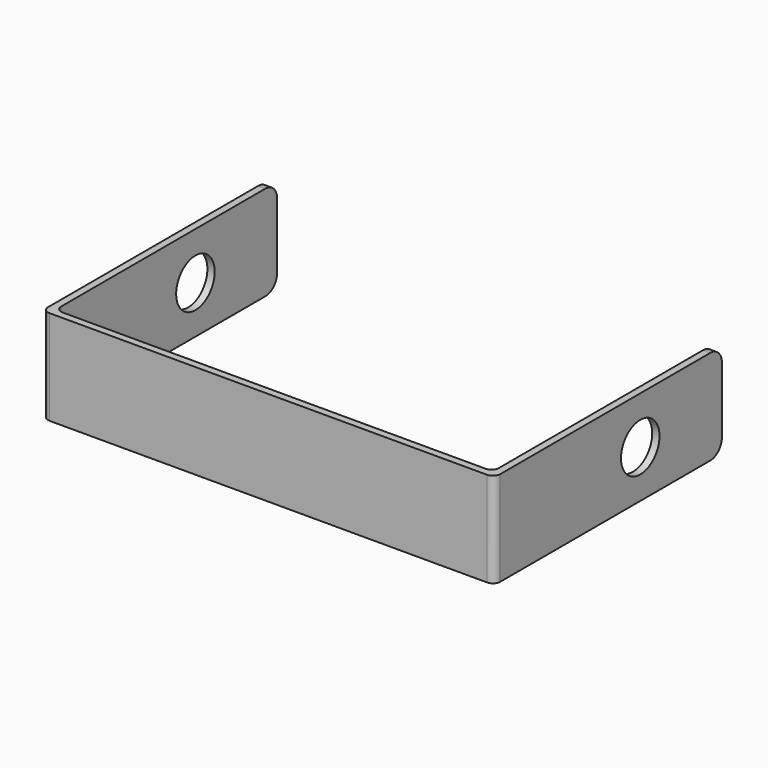
from build123d import *

# Parameters (mm, degrees)
F1_DEPTH = 6.5
F2_R     = 1.65
F3_DEPTH = 31.001
F4_R     = 0.5
F5_R     = 1


with BuildPart() as f1:
    # F0 (on Top) → F1 (new body)
    with BuildSketch(Plane.XY):
        Polygon((15, 0), (-15, 0), (-15, 19), (-15.5, 19), (-15.5, -0.5), (15.5, -0.5), (15.5, 19), (15, 19), align=None)
    extrude(amount=F1_DEPTH)

    # F2 (on face) → F3 (cut, through all)
    with BuildSketch(Plane.YZ.offset(15.5)):
        with Locations((12, 3.25)):
            Circle(F2_R)
    extrude(amount=-F3_DEPTH, mode=Mode.SUBTRACT)

    # F4
    f4_edges = [f1.edges().sort_by_distance(p)[0] for p in [
        (-15.5, -0.5, 3.25),
        (15.5, -0.5, 3.25),
        (15, 0, 3.25),
        (-15, 0, 3.25),
    ]]
    fillet(f4_edges, radius=F4_R)

    # F5
    f5_edges = [f1.edges().sort_by_distance(p)[0] for p in [
        (-15.25, 19, 6.5),
        (-15.25, 19, 0),
        (15.25, 19, 6.5),
        (15.25, 19, 0),
    ]]
    fillet(f5_edges, radius=F5_R)


solid = f1.part
